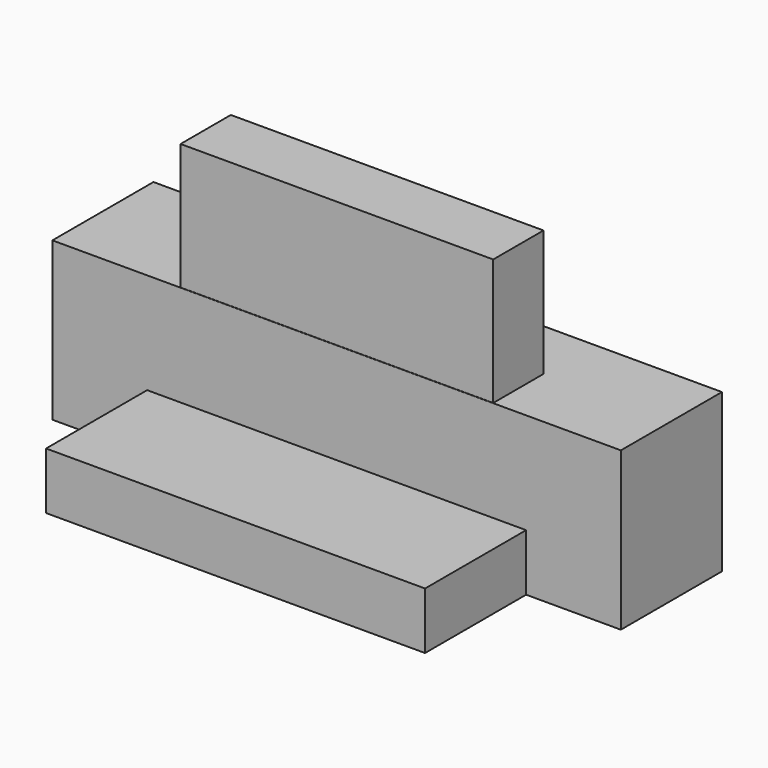
from build123d import *

# Parameters (mm, degrees)
SKETCH008_W  = 18
SKETCH008_H  = 5
PAD008_DEPTH = 4
SKETCH010_W  = 9.9
SKETCH010_H  = 1.99
PAD009_DEPTH = 4
SKETCH011_W  = 12
SKETCH011_H  = 1.8
PAD010_DEPTH = 4


with BuildPart() as part:
    # Sketch008 → Pad008 (new body)
    with BuildSketch(Plane(origin=(0, -10.4875, 0), x_dir=(-1, 0, 0), z_dir=(0, 1, 0))):
        with Locations((0, -1.5)):
            Rectangle(SKETCH008_W, SKETCH008_H)
    extrude(amount=-PAD008_DEPTH)

    # Sketch010 → Pad009 (new body)
    with BuildSketch(Plane(origin=(0, -10.4875, 1), x_dir=(1, 0, 0), z_dir=(0, 0, 1))):
        with Locations((0, -2.995)):
            Rectangle(SKETCH010_W, SKETCH010_H)
    extrude(amount=PAD009_DEPTH)

    # Sketch011 → Pad010 (new body)
    with BuildSketch(Plane(origin=(0, -14.4875, 0), x_dir=(-1, 0, 0), z_dir=(0, -1, 0))):
        with Locations((0, 3.1)):
            Rectangle(SKETCH011_W, SKETCH011_H)
    extrude(amount=PAD010_DEPTH)


solid = part.part
